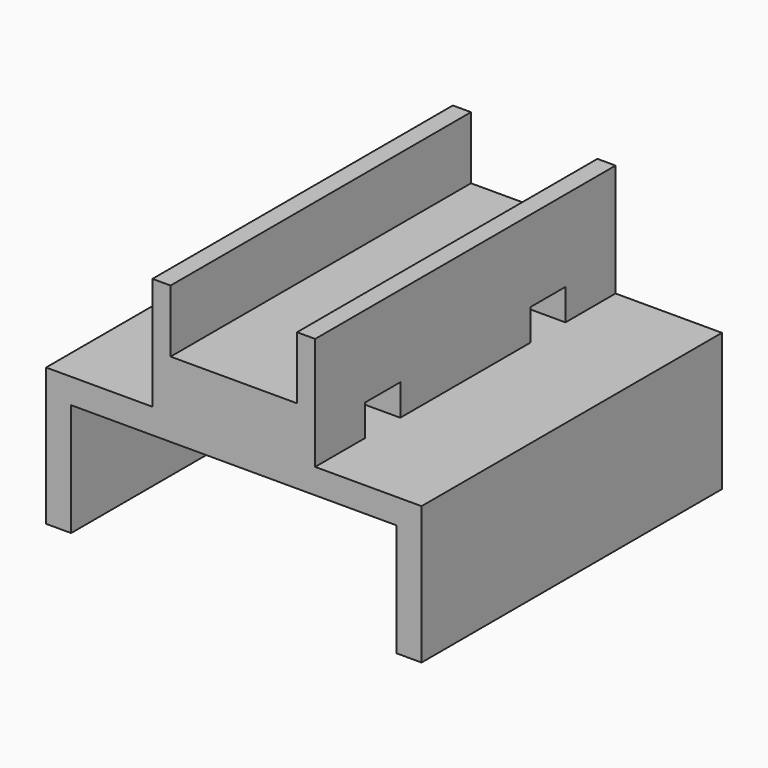
from build123d import *

# Parameters (mm, degrees)
F0_W      = 30
F0_H      = 30
F1_DEPTH  = 11
F2_W      = 26
F2_H      = 30
F3_DEPTH  = 9
F4_W      = 1.45
F4_H      = 30
F5_DEPTH  = 9
F5_FACE_W = 10.1
F5_FACE_H = 30
F6_DEPTH  = 4
F7_W      = 3.5
F7_H      = 2.5
F8_DEPTH  = 13


with BuildPart() as f1:
    # F0 (on Top) → F1 (new body)
    with BuildSketch(Plane.XY):
        Rectangle(F0_W, F0_H)
    extrude(amount=F1_DEPTH)

    # F2 (on face) → F3 (cut)
    with BuildSketch(Plane(origin=(0, 0, 0), x_dir=(1, 0, 0), z_dir=(0, 0, -1))):
        Rectangle(F2_W, F2_H)
    extrude(amount=-F3_DEPTH, mode=Mode.SUBTRACT)

    # F4 (on face) → F5 (join)
    with BuildSketch(Plane.XY.offset(11)):
        with Locations((-5.775, 0)):
            Rectangle(F4_W, F4_H)
        with Locations((5.775, 0)):
            Rectangle(F4_W, F4_H)
    extrude(amount=F5_DEPTH)

    # F5_face (on face) → F6 (join)
    with BuildSketch(Plane.XY.offset(11)):
        Rectangle(F5_FACE_W, F5_FACE_H)
    extrude(amount=F6_DEPTH)

    # F7 (on face) → F8 (cut, through all)
    with BuildSketch(Plane.YZ.offset(6.5)):
        with Locations((-8.25, 12.25)):
            Rectangle(F7_W, F7_H)
        with Locations((8.25, 12.25)):
            Rectangle(F7_W, F7_H)
    extrude(amount=-F8_DEPTH, mode=Mode.SUBTRACT)


solid = f1.part
